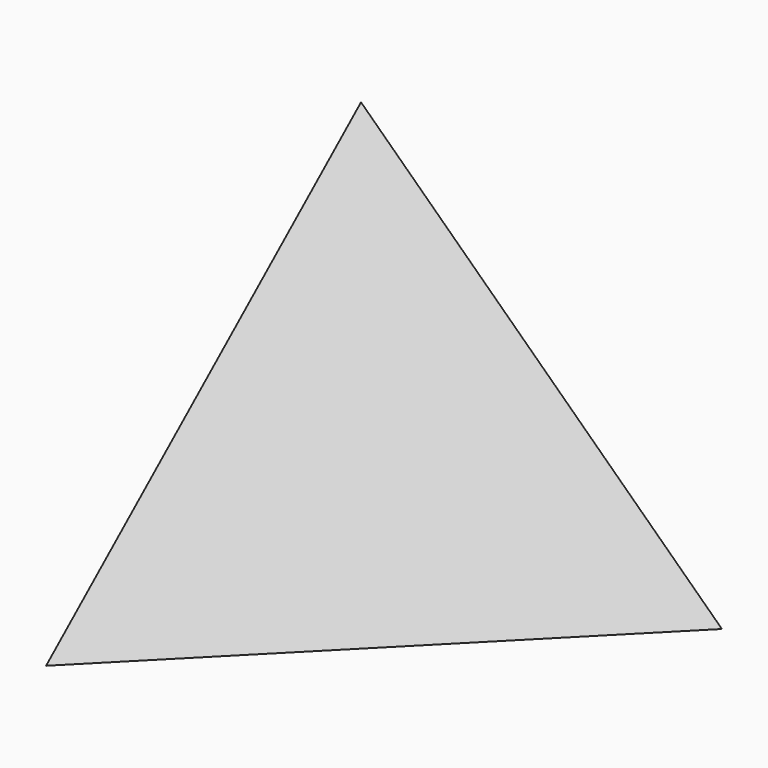
from build123d import *


with BuildPart() as f3:
    # F0 (on Top) → F3 section 0
    with BuildSketch(Plane.XY, mode=Mode.PRIVATE) as f3_s0:
        Polygon((73.83846, 20.309991), (-54.508198, 53.790987), (-19.330262, -74.100977), align=None)
    loft([f3_s0.sketch, Vertex(0, 0, 100)])


solid = f3.part
